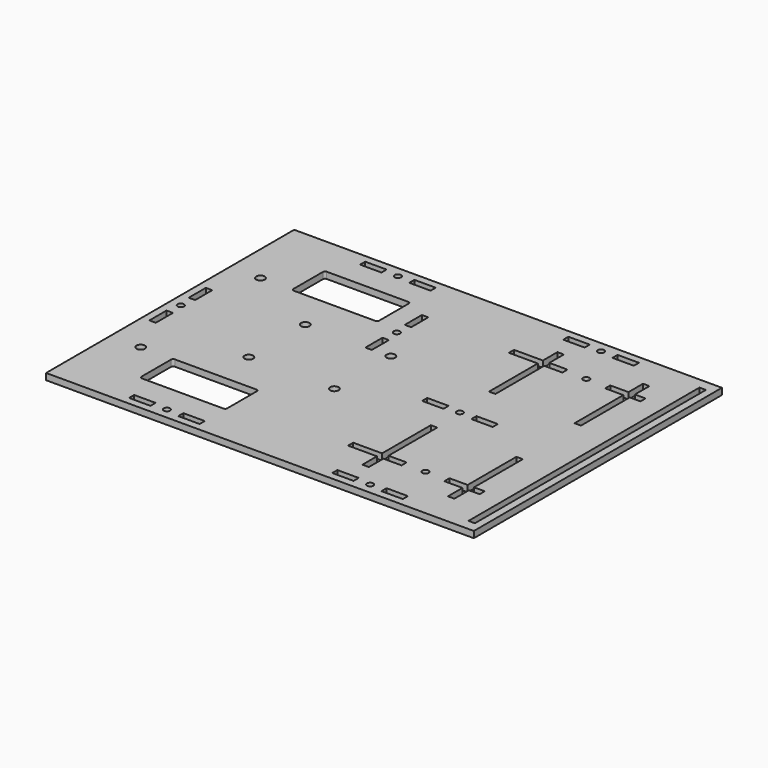
from build123d import *

# Parameters (mm, degrees)
F0_W     = 200
F0_H     = 145
F0_R     = 2
F0_W_2   = 10
F0_H_2   = 3
F0_R_2   = 1.5
F0_W_3   = 3
F0_H_3   = 10
F0_H_4   = 135
F1_DEPTH = 3


with BuildPart() as f1:
    # F0 (on Top) → F1 (new body)
    with BuildSketch(Plane.XY):
        with Locations((42.636041, 49.168777)):
            Rectangle(F0_W, F0_H)
        with Locations((-43.113959, 14.168777)):
            Circle(F0_R, mode=Mode.SUBTRACT)
        with Locations((-16.363959, -18.331223)):
            Rectangle(F0_W_2, F0_H_2, mode=Mode.SUBTRACT)
        with Locations((-4.863959, -18.331223)):
            Circle(F0_R_2, mode=Mode.SUBTRACT)
        with Locations((6.636041, -18.331223)):
            Rectangle(F0_W_2, F0_H_2, mode=Mode.SUBTRACT)
        with BuildLine():
            ThreePointArc((-28.34783, 13.408052), (-28.054936, 14.115159), (-27.34783, 14.408052))
            Line((-27.34783, 14.408052), (10.75808, 14.408052))
            ThreePointArc((10.75808, 14.408052), (11.465186, 14.115159), (11.75808, 13.408052))
            Line((11.75808, 13.408052), (11.75808, -3.846393))
            ThreePointArc((11.75808, -3.846393), (11.465186, -4.553499), (10.75808, -4.846393))
            Line((10.75808, -4.846393), (-27.34783, -4.846393))
            ThreePointArc((-27.34783, -4.846393), (-28.054936, -4.553499), (-28.34783, -3.846393))
            Line((-28.34783, -3.846393), (-28.34783, 13.408052))
        make_face(mode=Mode.SUBTRACT)
        with Locations((-52.365544, 37.668777)):
            Rectangle(F0_W_3, F0_H_3, mode=Mode.SUBTRACT)
        with Locations((-52.363959, 49.168777)):
            Circle(F0_R_2, mode=Mode.SUBTRACT)
        with Locations((-7.363959, 32.668777)):
            Circle(F0_R, mode=Mode.SUBTRACT)
        with Locations((78.636041, -18.331223)):
            Rectangle(F0_W_2, F0_H_2, mode=Mode.SUBTRACT)
        with Locations((90.136041, -18.331223)):
            Circle(F0_R_2, mode=Mode.SUBTRACT)
        Polygon((78.136041, 32.168777), (81.136041, 32.168777), (81.136041, 3.668777), (89.636041, 3.668777), (89.636041, 0.668777), (81.136041, 0.668777), (81.136041, -7.831223), (78.136041, -7.831223), (78.136041, 0.668777), (64.636041, 0.668777), (64.636041, 3.668777), (78.136041, 3.668777), align=None, mode=Mode.SUBTRACT)
        with Locations((32.636041, 32.668777)):
            Circle(F0_R, mode=Mode.SUBTRACT)
        with Locations((68.636041, 46.668777)):
            Rectangle(F0_W_2, F0_H_2, mode=Mode.SUBTRACT)
        with Locations((80.136041, 46.668777)):
            Circle(F0_R_2, mode=Mode.SUBTRACT)
        with Locations((-52.365544, 60.668777)):
            Rectangle(F0_W_3, F0_H_3, mode=Mode.SUBTRACT)
        with Locations((-43.113959, 84.168777)):
            Circle(F0_R, mode=Mode.SUBTRACT)
        with Locations((-7.363959, 65.668777)):
            Circle(F0_R, mode=Mode.SUBTRACT)
        with BuildLine():
            Line((-27.34783, 103.183946), (10.75808, 103.183946))
            ThreePointArc((10.75808, 103.183946), (11.465186, 102.891053), (11.75808, 102.183946))
            Line((11.75808, 102.183946), (11.75808, 84.929501))
            ThreePointArc((11.75808, 84.929501), (11.465186, 84.222394), (10.75808, 83.929501))
            Line((10.75808, 83.929501), (-27.34783, 83.929501))
            ThreePointArc((-27.34783, 83.929501), (-28.054936, 84.222394), (-28.34783, 84.929501))
            Line((-28.34783, 84.929501), (-28.34783, 102.183946))
            ThreePointArc((-28.34783, 102.183946), (-28.054936, 102.891053), (-27.34783, 103.183946))
        make_face(mode=Mode.SUBTRACT)
        with Locations((-16.363959, 116.668777)):
            Rectangle(F0_W_2, F0_H_2, mode=Mode.SUBTRACT)
        with Locations((-4.863959, 116.668777)):
            Circle(F0_R_2, mode=Mode.SUBTRACT)
        with Locations((6.636041, 116.668777)):
            Rectangle(F0_W_2, F0_H_2, mode=Mode.SUBTRACT)
        with Locations((22.634456, 70.168777)):
            Rectangle(F0_W_3, F0_H_3, mode=Mode.SUBTRACT)
        with Locations((32.636041, 65.668777)):
            Circle(F0_R, mode=Mode.SUBTRACT)
        with Locations((22.636041, 81.668777)):
            Circle(F0_R_2, mode=Mode.SUBTRACT)
        Polygon((81.136041, 94.668777), (81.136041, 66.168777), (78.136041, 66.168777), (78.136041, 94.668777), (64.636041, 94.668777), (64.636041, 97.668777), (78.136041, 97.668777), (78.136041, 106.168777), (81.136041, 106.168777), (81.136041, 97.668777), (89.636041, 97.668777), (89.636041, 94.668777), align=None, mode=Mode.SUBTRACT)
        with Locations((22.634456, 93.168777)):
            Rectangle(F0_W_3, F0_H_3, mode=Mode.SUBTRACT)
        with Locations((78.636041, 116.668777)):
            Rectangle(F0_W_2, F0_H_2, mode=Mode.SUBTRACT)
        with Locations((90.136041, 116.668777)):
            Circle(F0_R_2, mode=Mode.SUBTRACT)
        with Locations((101.636041, -18.331223)):
            Rectangle(F0_W_2, F0_H_2, mode=Mode.SUBTRACT)
        with Locations((99.636041, 2.168777)):
            Circle(F0_R_2, mode=Mode.SUBTRACT)
        Polygon((118.136041, 3.668777), (118.136041, 32.168777), (121.136041, 32.168777), (121.136041, 3.668777), (126.136041, 3.668777), (126.136041, 0.668777), (121.136041, 0.668777), (121.136041, -7.831223), (118.136041, -7.831223), (118.136041, 0.668777), (109.636041, 0.668777), (109.636041, 3.668777), align=None, mode=Mode.SUBTRACT)
        with Locations((91.636041, 46.668777)):
            Rectangle(F0_W_2, F0_H_2, mode=Mode.SUBTRACT)
        with Locations((137.636041, 49.168777)):
            Rectangle(F0_W_3, F0_H_4, mode=Mode.SUBTRACT)
        Polygon((118.136041, 97.668777), (118.136041, 106.168777), (121.136041, 106.168777), (121.136041, 97.668777), (126.136041, 97.668777), (126.136041, 94.668777), (121.136041, 94.668777), (121.136041, 66.168777), (118.136041, 66.168777), (118.136041, 94.668777), (109.636041, 94.668777), (109.636041, 97.668777), align=None, mode=Mode.SUBTRACT)
        with Locations((99.636041, 96.168777)):
            Circle(F0_R_2, mode=Mode.SUBTRACT)
        with Locations((101.636041, 116.668777)):
            Rectangle(F0_W_2, F0_H_2, mode=Mode.SUBTRACT)
    extrude(amount=F1_DEPTH)


solid = f1.part
